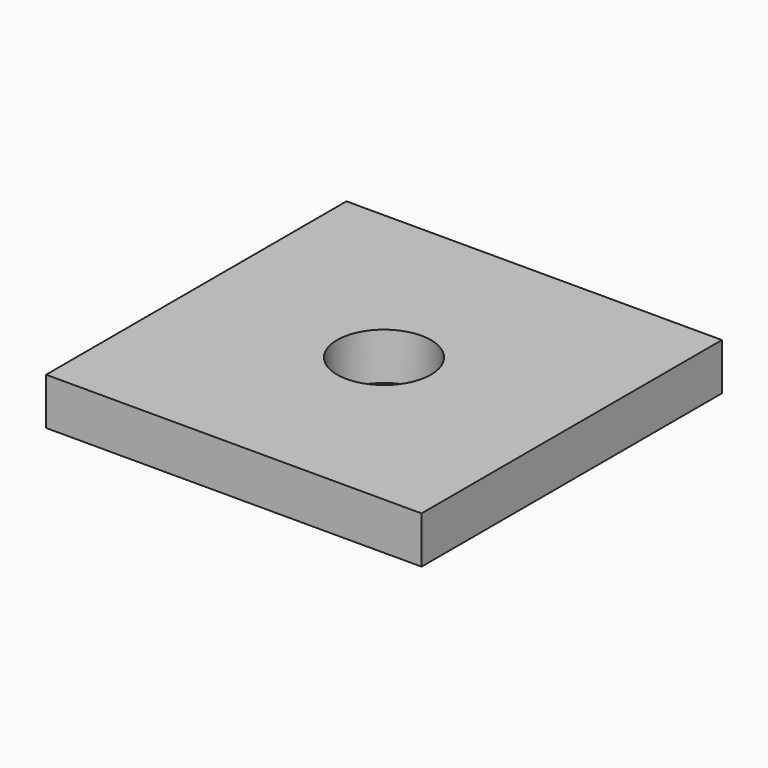
from build123d import *

# Parameters (mm, degrees)
SKETCH_W         = 40
SKETCH_H         = 40
SKETCH_R         = 5
EXTRUDE_DEPTH    = 5
EXTRUDE001_DEPTH = 5


with BuildPart() as extrude_body:
    # Sketch → Extrude (new body)
    with BuildSketch(Plane.XY):
        Rectangle(SKETCH_W, SKETCH_H)
        Circle(SKETCH_R, mode=Mode.SUBTRACT)
    extrude(amount=EXTRUDE_DEPTH)


with BuildPart() as extrude001:
    # Sketch → Extrude001 (new body)
    with BuildSketch(Plane.XY):
        Rectangle(SKETCH_W, SKETCH_H)
        Circle(SKETCH_R, mode=Mode.SUBTRACT)
    extrude(amount=EXTRUDE001_DEPTH)


solid = Compound([extrude_body.part, extrude001.part])
